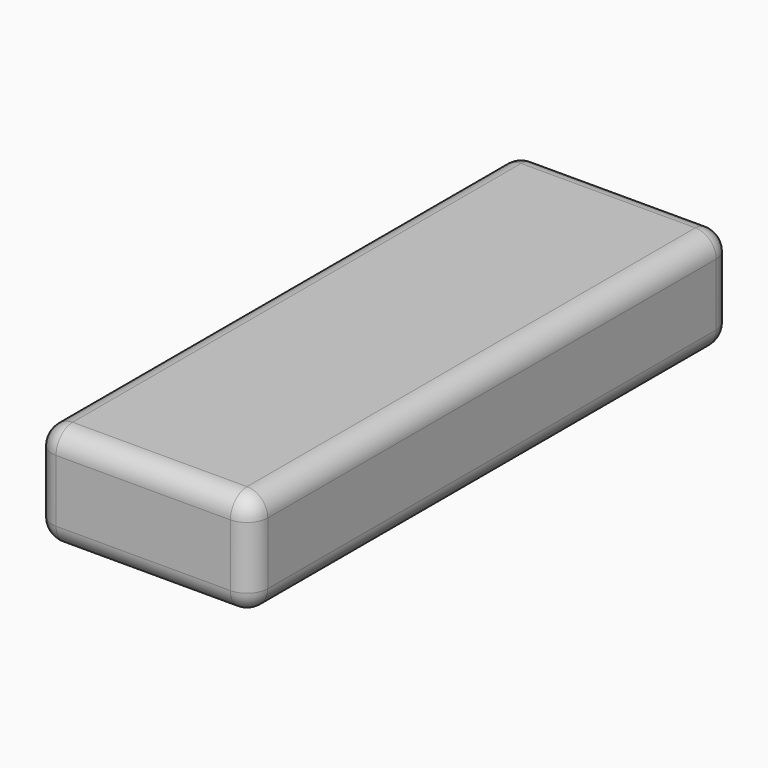
from build123d import *

# Parameters (mm, degrees)
F1_DEPTH = 25
F2_R     = 5


with BuildPart() as f1:
    # F0 (on Top) → F1 (new body)
    with BuildSketch(Plane.XY):
        with BuildLine():
            ThreePointArc((26, 67.5), (24.5355339059, 71.0355339059), (21, 72.5))
            Line((21, 72.5), (-21, 72.5))
            ThreePointArc((-21, 72.5), (-24.5355339059, 71.0355339059), (-26, 67.5))
            Line((-26, 67.5), (-26, -67.5))
            ThreePointArc((-26, -67.5), (-24.5355339059, -71.0355339059), (-21, -72.5))
            Line((-21, -72.5), (21, -72.5))
            ThreePointArc((21, -72.5), (24.5355339059, -71.0355339059), (26, -67.5))
            Line((26, -67.5), (26, 67.5))
        make_face()
    extrude(amount=F1_DEPTH)

    # F2
    f2_edges = [f1.edges().sort_by_distance(p)[0] for p in [
        (24.535534, 71.035534, 25),
        (0, 72.5, 25),
        (-24.535534, 71.035534, 25),
        (-26, 0, 25),
        (-24.535534, -71.035534, 25),
        (0, -72.5, 25),
        (24.535534, -71.035534, 25),
        (26, 0, 25),
        (24.535534, 71.035534, 0),
        (0, 72.5, 0),
        (-24.535534, 71.035534, 0),
        (-26, 0, 0),
        (-24.535534, -71.035534, 0),
        (0, -72.5, 0),
        (24.535534, -71.035534, 0),
        (26, 0, 0),
    ]]
    fillet(f2_edges, radius=F2_R)


solid = f1.part
